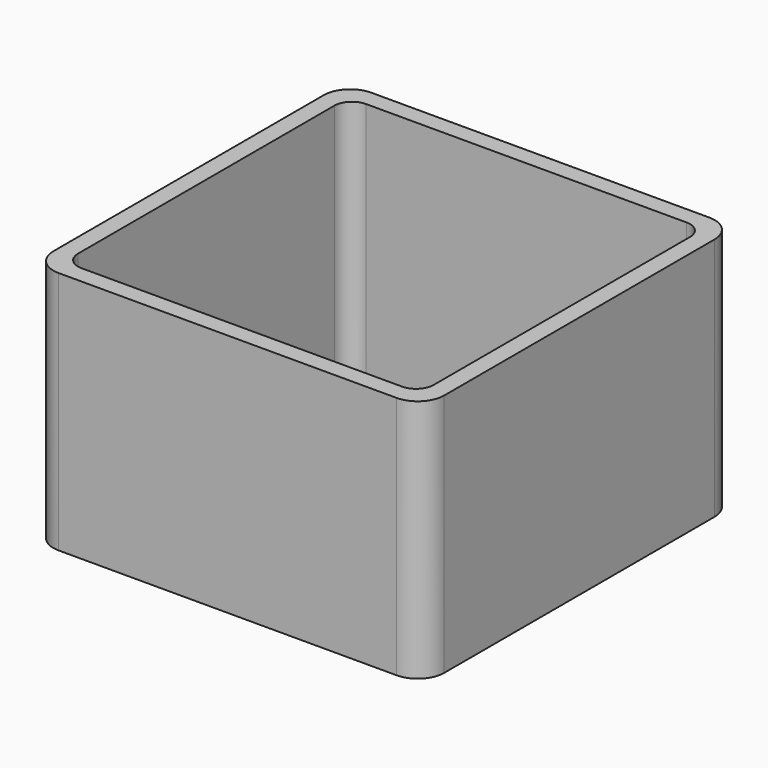
from build123d import *

# Parameters (mm, degrees)
EXTRUDE_DEPTH = 50


with BuildPart() as part:
    # Sketch → Extrude (new body)
    with BuildSketch(Plane.XY):
        with BuildLine():
            Line((-34.6, 40), (34.6, 40))
            ThreePointArc((40, 34.6), (38.418377, 38.418377), (34.6, 40))
            Line((40, 34.6), (40, -34.6))
            ThreePointArc((34.6, -40), (38.418377, -38.418377), (40, -34.6))
            Line((34.6, -40), (-34.6, -40))
            ThreePointArc((-40, -34.6), (-38.418377, -38.418377), (-34.6, -40))
            Line((-40, -34.6), (-40, 34.6))
            ThreePointArc((-34.6, 40), (-38.418377, 38.418377), (-40, 34.6))
        make_face()
        with BuildLine():
            Line((-32.8, 36.4), (32.8, 36.4))
            ThreePointArc((36.4, 32.8), (35.345584, 35.345584), (32.8, 36.4))
            Line((36.4, 32.8), (36.4, -32.8))
            ThreePointArc((32.8, -36.4), (35.345584, -35.345584), (36.4, -32.8))
            Line((32.8, -36.4), (-32.8, -36.4))
            ThreePointArc((-36.4, -32.8), (-35.345584, -35.345584), (-32.8, -36.4))
            Line((-36.4, -32.8), (-36.4, 32.8))
            ThreePointArc((-32.8, 36.4), (-35.345584, 35.345584), (-36.4, 32.8))
        make_face(mode=Mode.SUBTRACT)
    extrude(amount=EXTRUDE_DEPTH)


solid = part.part
